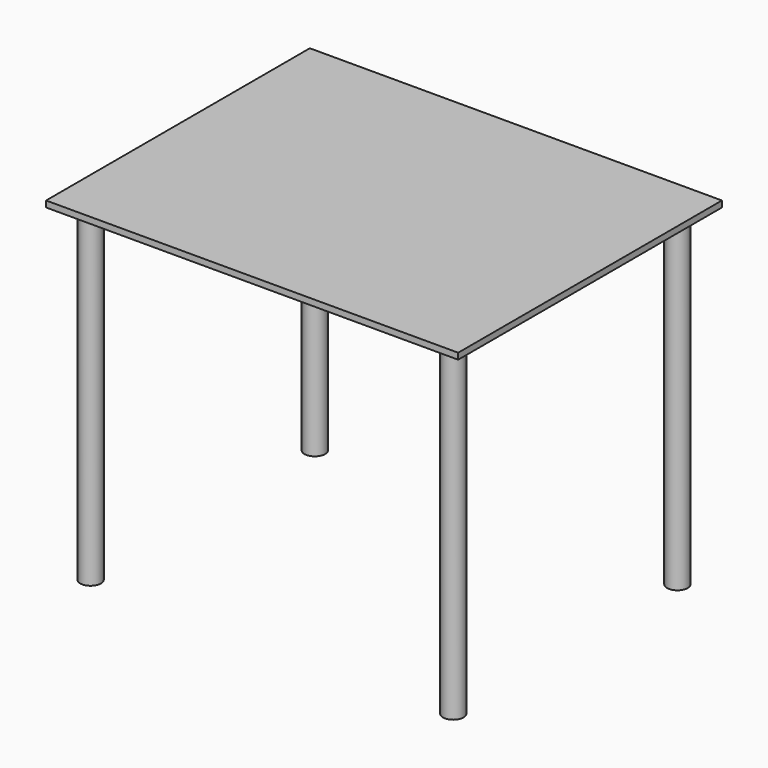
from build123d import *

# Parameters (mm, degrees)
F0_W     = 1000
F0_H     = 800
F1_DEPTH = 7.5
F2_R     = 25
F3_DEPTH = 800


with BuildPart() as f1:
    # F0 (on Top) → F1 (new body, symmetric)
    with BuildSketch(Plane.XY):
        Rectangle(F0_W, F0_H)
    extrude(amount=F1_DEPTH, both=True)


with BuildPart() as f3:
    # F2 (on face) → F3 (new body)
    with BuildSketch(Plane(origin=(0, 0, -7.5), x_dir=(1, 0, 0), z_dir=(0, 0, -1))):
        with Locations((-440, 340)):
            Circle(F2_R)
        with Locations((-440, -340)):
            Circle(F2_R)
        with Locations((440, -340)):
            Circle(F2_R)
        with Locations((440, 340)):
            Circle(F2_R)
    extrude(amount=F3_DEPTH)


solid = Compound([f1.part, f3.part])
